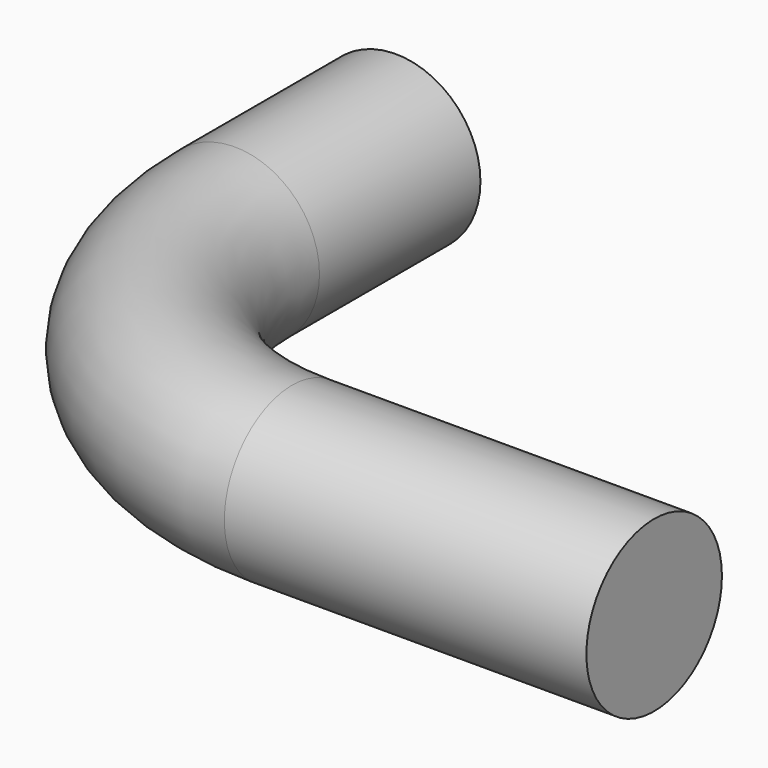
from build123d import *

# Parameters (mm, degrees)
F0_R = 7.5058718861


with BuildPart() as f3:
    # F3: sweep along a path in F2
    with BuildLine(Plane.XY.offset(14.8059139028)) as f3_path:
        Line((0, -48.6374087632), (-32.0804060161, -48.6374087632))
        ThreePointArc((-32.0804060161, -48.6374087632), (-50.0409182582, -41.1979210053), (-57.4804060161, -23.2374087632))
        Line((-57.4804060161, -23.2374087632), (-57.4804060161, -5.4109562415))
    # F0 (on Right) → F3 (sweep)
    with BuildSketch(Plane.YZ):
        with Locations((-48.6374087632, 14.8059139028)):
            Circle(F0_R)
    sweep(path=f3_path.line)


solid = f3.part
